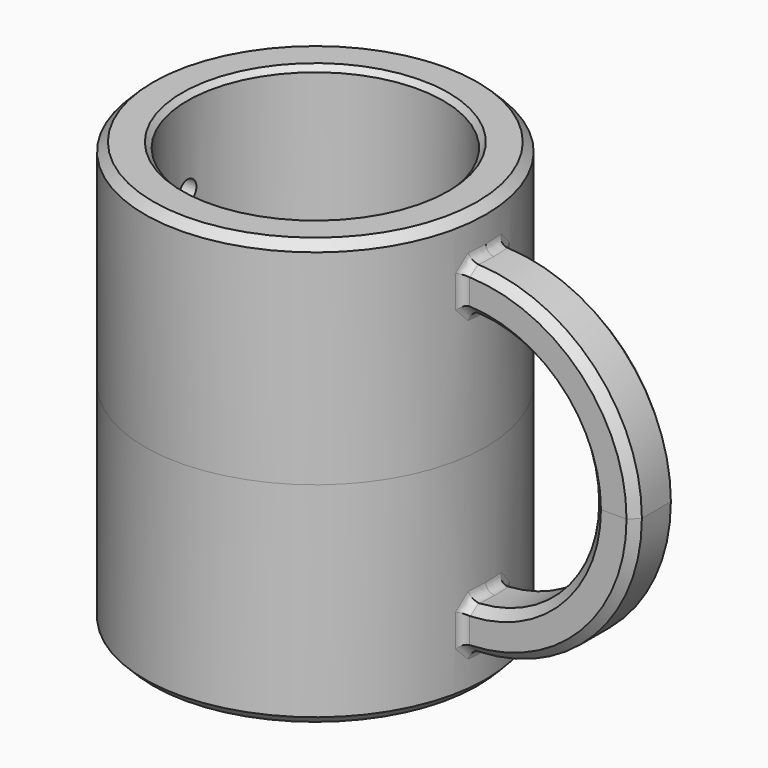
from build123d import *

# Parameters (mm, degrees)
F0_R     = 50.8
F0_R_2   = 38.1
F1_DEPTH = 63.5
F2_W     = 12.7
F2_H     = 15.875
F3_ANGLE = 100
F4_SIZE  = 2.54
F5_SIZE  = 1.5748
F6_R     = 2.54
F9_D     = 6.35
F9_DEPTH = 50.8010001


with BuildPart() as f1:
    # F0 (on Top) → F1 (new body)
    with BuildSketch(Plane.XY):
        Circle(F0_R)
        Circle(F0_R_2, mode=Mode.SUBTRACT)
    extrude(amount=F1_DEPTH)

    # F2 (on Top) → F3 (revolve)
    with BuildSketch(Plane.XY):
        with Locations((95.25, 0)):
            Rectangle(F2_W, F2_H)
    revolve(axis=Axis((50.8, 30.9752766043, 0), (0, -1, 0)), revolution_arc=F3_ANGLE)

    # F4
    f4_edges = [f1.edges().sort_by_distance(p)[0] for p in [
        (86.499744, -7.9375, 36.140951),
        (77.519258, -7.9375, 27.160472),
        (86.499744, 7.9375, 36.140951),
        (77.519258, 7.9375, 27.160472),
        (-50.8, 0, 63.5),
    ]]
    chamfer(f4_edges, length=F4_SIZE)

    # F5
    f5_edges = [f1.edges().sort_by_distance(p)[0] for p in [
        (-38.1, 0, 63.5),
    ]]
    chamfer(f5_edges, length=F5_SIZE)

    # F6
    f6_edges = [f1.edges().sort_by_distance(p)[0] for p in [
        (50.72806, -2.702577, 50.799949),
        (50.72806, 2.702577, 50.799949),
        (50.360372, 6.668804, 49.526745),
        (50.176051, 7.9375, 44.445588),
        (50.360372, -6.668804, 49.526745),
        (50.176051, -7.9375, 44.445588),
        (50.360434, -6.668331, 39.368377),
        (50.72806, -2.702577, 38.099932),
        (50.72806, 2.702577, 38.099932),
        (50.360434, 6.668331, 39.368377),
    ]]
    fillet(f6_edges, radius=F6_R)

    # F7: F1 across plane


with BuildPart() as f1_1:
    add(f1.part)
    add(f1.part.mirror(Plane.XY))

    # F9 (through all, one way)
    with BuildSketch(Plane.YZ):
        with Locations((0, 38.1), (0, -38.1)):
            Circle(F9_D / 2)
    extrude(amount=-F9_DEPTH, mode=Mode.SUBTRACT)


solid = f1_1.part
